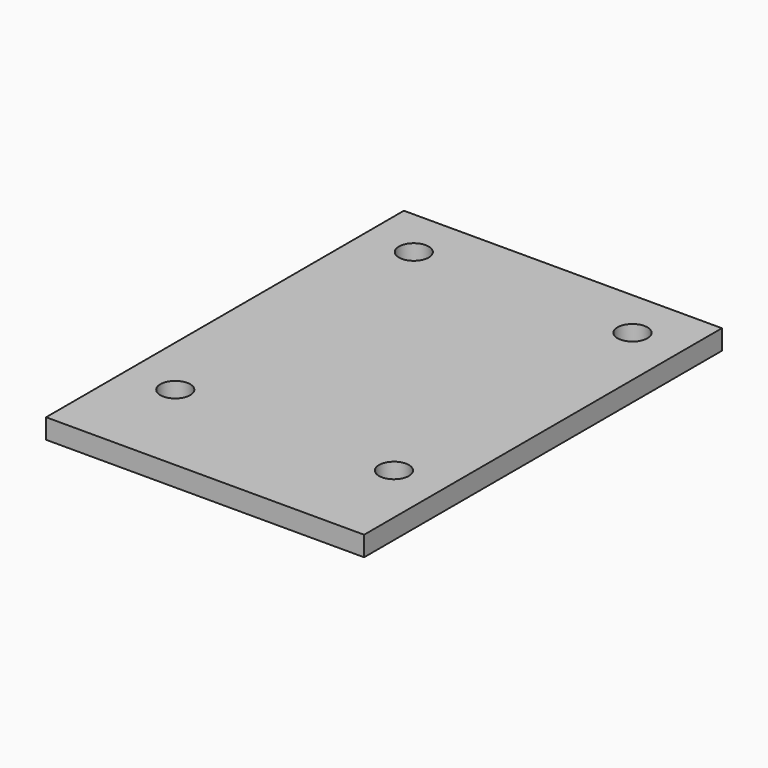
from build123d import *

# Parameters (mm, degrees)
F0_W     = 812.8
F0_H     = 1143
F1_DEPTH = 50.8
F2_R     = 38.1
F3_DEPTH = 50.801


with BuildPart() as f1:
    # F0 (on Top) → F1 (new body)
    with BuildSketch(Plane.XY):
        with Locations((406.4, 571.5)):
            Rectangle(F0_W, F0_H)
    extrude(amount=F1_DEPTH)

    # F2 (on face) → F3 (cut, through all)
    with BuildSketch(Plane.XY.offset(50.8)):
        with Locations((685.8, 254)):
            Circle(F2_R)
        with Locations((127, 254)):
            Circle(F2_R)
        with Locations((685.8, 1016)):
            Circle(F2_R)
        with Locations((127, 1016)):
            Circle(F2_R)
    extrude(amount=-F3_DEPTH, mode=Mode.SUBTRACT)


solid = f1.part
